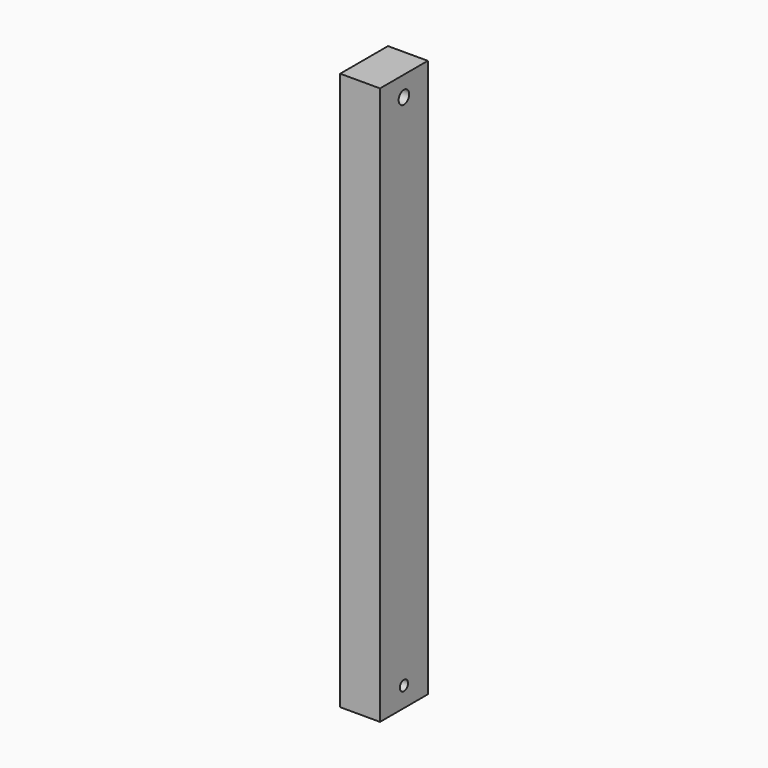
from build123d import *

# Parameters (mm, degrees)
F0_W     = 38.1
F0_H     = 355.6
F1_DEPTH = 25.4
F3_D     = 6.5278
F5_D     = 8.4328


with BuildPart() as f1:
    # F0 (on Right) → F1 (new body)
    with BuildSketch(Plane.YZ):
        Rectangle(F0_W, F0_H)
    extrude(amount=F1_DEPTH)

    # F3 (through all)
    with Locations(Plane.YZ.offset(25.4)):
        with Locations((0, -165.1)):
            Hole(F3_D / 2)

    # F5 (through all)
    with Locations(Plane.YZ.offset(25.4)):
        with Locations((0, 165.1)):
            Hole(F5_D / 2)


solid = f1.part
